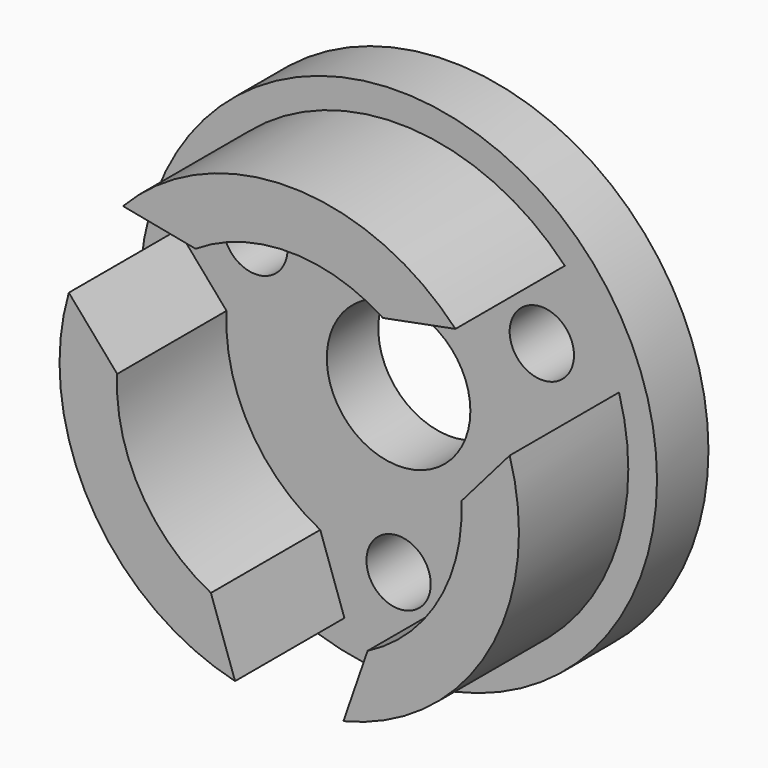
from build123d import *

# Parameters (mm, degrees)
F0_R     = 57.15
F1_DEPTH = 14.224
F2_R     = 7.112
F2_R_2   = 15.875
F3_DEPTH = 14.225
F5_DEPTH = 30.226


with BuildPart() as f1:
    # F0 (on Front) → F1 (new body)
    with BuildSketch(Plane.XZ):
        Circle(F0_R)
    extrude(amount=F1_DEPTH)

    # F2 (on face) → F3 (cut, through all)
    with BuildSketch(Plane.XZ.offset(14.224)):
        with Locations((0, -36.576)):
            Circle(F2_R)
        with Locations((31.675745, 18.288)):
            Circle(F2_R)
        with Locations((-31.675745, 18.288)):
            Circle(F2_R)
        Circle(F2_R_2)
    extrude(amount=-F3_DEPTH, mode=Mode.SUBTRACT)

    # F4 (on face) → F5 (join)
    with BuildSketch(Plane.XZ.offset(14.224)):
        with BuildLine():
            Line((20.723909, 31.970762), (36.762214, 35.059658))
            ThreePointArc((36.762214, 35.059658), (0, 50.8), (-36.762214, 35.059658))
            Line((-36.762214, 35.059658), (-20.723909, 31.970762))
            ThreePointArc((-20.723909, 31.970762), (0, 38.1), (20.723909, 31.970762))
        make_face()
        with BuildLine():
            Line((-38.049446, 1.962051), (-48.743661, 14.307182))
            ThreePointArc((-48.743661, 14.307182), (-43.994091, -25.4), (-11.981447, -49.36684))
            Line((-11.981447, -49.36684), (-17.325537, -33.932813))
            ThreePointArc((-17.325537, -33.932813), (-32.995568, -19.05), (-38.049446, 1.962051))
        make_face()
        with BuildLine():
            ThreePointArc((38.049446, 1.962051), (32.995568, -19.05), (17.325537, -33.932812))
            Line((17.325537, -33.932812), (11.981447, -49.36684))
            ThreePointArc((11.981447, -49.36684), (43.994091, -25.4), (48.743661, 14.307182))
            Line((48.743661, 14.307182), (38.049446, 1.962051))
        make_face()
    extrude(amount=F5_DEPTH)


solid = f1.part
